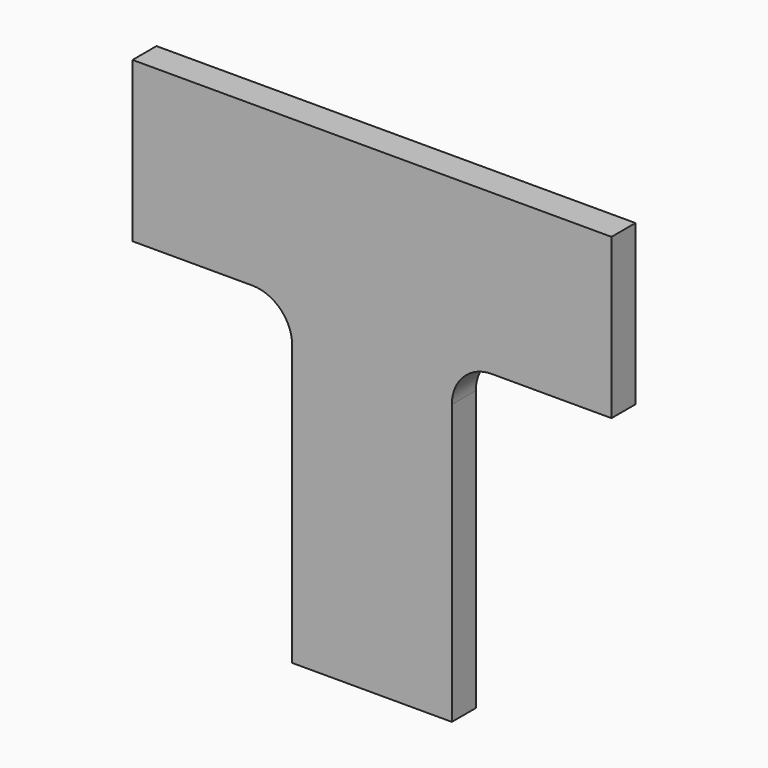
from build123d import *

# Parameters (mm, degrees)
F1_DEPTH = 4.7625


with BuildPart() as f1:
    # F0 (on Front) → F1 (new body)
    with BuildSketch(Plane.XZ):
        with BuildLine():
            Line((76.2, 0), (0, 0))
            Line((0, 0), (0, -25.4))
            Line((0, -25.4), (19.05, -25.4))
            ThreePointArc((19.05, -25.4), (23.540128, -27.259872), (25.4, -31.75))
            Line((25.4, -31.75), (25.4, -76.2))
            Line((25.4, -76.2), (50.8, -76.2))
            Line((50.8, -76.2), (50.8, -31.75))
            ThreePointArc((50.8, -31.75), (52.659872, -27.259872), (57.15, -25.4))
            Line((57.15, -25.4), (76.2, -25.4))
            Line((76.2, -25.4), (76.2, 0))
        make_face()
    extrude(amount=F1_DEPTH)


solid = f1.part
